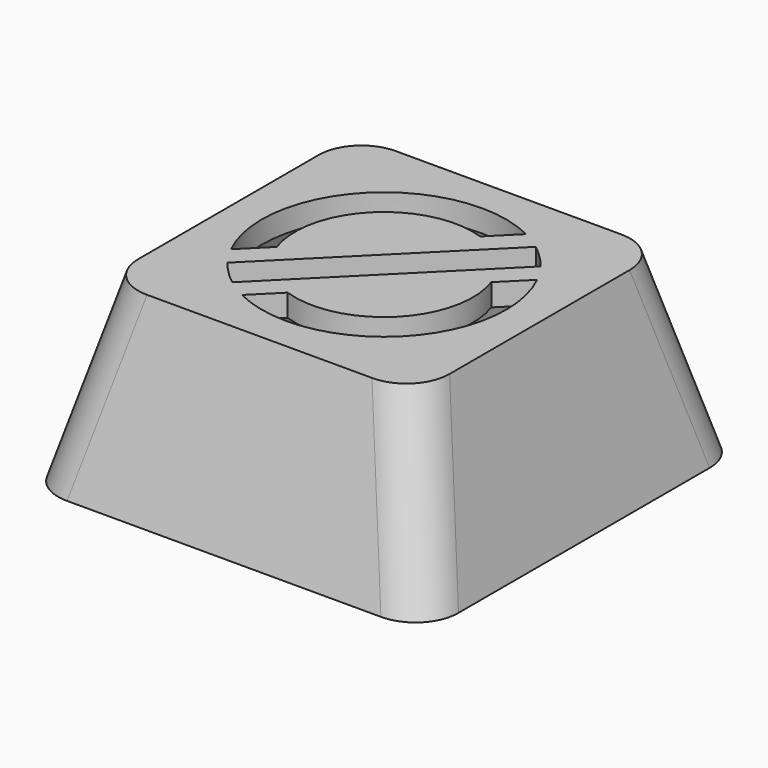
from build123d import *

# Parameters (mm, degrees)
SKETCH_W             = 18
SKETCH_H             = 18
PAD_DEPTH            = 8
POCKET_DEPTH         = 18.001
POCKET001_DEPTH      = 9.001
POCKET001_DEPTH_BACK = 9.001
FILLET_R             = 2
THICKNESS_T          = -1
POCKET002_DEPTH      = 1


with BuildPart() as part:
    # Sketch → Pad (new body)
    with BuildSketch(Plane.XY):
        Rectangle(SKETCH_W, SKETCH_H)
    extrude(amount=PAD_DEPTH)

    # Sketch001 (on Face1 of Pad) → Pocket (cut, through all)
    with BuildSketch(Plane.XZ.offset(9)):
        Polygon((-9, 8), (-9, 0), (-7, 8), align=None)
        Polygon((9, 8), (9, 0), (7, 8), align=None)
    extrude(amount=-POCKET_DEPTH, mode=Mode.SUBTRACT)

    # Sketch002 → Pocket001 (cut, two sides)
    with BuildSketch(Plane.YZ) as pocket001_sk:
        Polygon((-9, 8), (-7, 8), (-9, 0), align=None)
        Polygon((9, 8), (7, 8), (9, 0), align=None)
    extrude(amount=-POCKET001_DEPTH, mode=Mode.SUBTRACT)
    extrude(pocket001_sk.sketch, amount=POCKET001_DEPTH_BACK, mode=Mode.SUBTRACT)

    # Fillet
    fillet_edges = [part.edges().sort_by_distance(p)[0] for p in [
        (-8, 8, 4),
        (-8, -8, 4),
        (8, -8, 4),
        (8, 8, 4),
    ]]
    fillet(fillet_edges, radius=FILLET_R)

    # Thickness
    thickness_openings = [part.faces().sort_by_distance(p)[0] for p in [
        (0, 0, 0),
    ]]
    offset(amount=THICKNESS_T, openings=thickness_openings, kind=Kind.INTERSECTION)

    # Sketch003 (on Face9 of Thickness) → Pocket002 (cut)
    with BuildSketch(Plane.XY.offset(8)):
        with BuildLine():
            ThreePointArc((-4.383089, -3.322429), (-3.889087, -3.889087), (-3.322429, -4.383089))
            Line((-3.322429, -4.383089), (4.383089, 3.322429))
            ThreePointArc((4.383089, 3.322429), (3.889087, 3.889087), (3.322429, 4.383089))
            Line((3.322429, 4.383089), (-4.383089, -3.322429))
        make_face()
        with BuildLine():
            ThreePointArc((-1.305937, -3.780811), (2.828427, -2.828427), (3.780811, 1.305937))
            Line((4.924407, 2.449533), (3.780811, 1.305937))
            ThreePointArc((-2.449533, -4.924407), (3.889087, -3.889087), (4.924407, 2.449533))
            Line((-1.305937, -3.780811), (-2.449533, -4.924407))
        make_face()
        with BuildLine():
            Line((-4.924407, -2.449533), (-3.780811, -1.305937))
            ThreePointArc((1.305937, 3.780811), (-2.828427, 2.828427), (-3.780811, -1.305937))
            Line((1.305937, 3.780811), (2.449533, 4.924407))
            ThreePointArc((2.449533, 4.924407), (-3.889087, 3.889087), (-4.924407, -2.449533))
        make_face()
    extrude(amount=-POCKET002_DEPTH, mode=Mode.SUBTRACT)


solid = part.part
